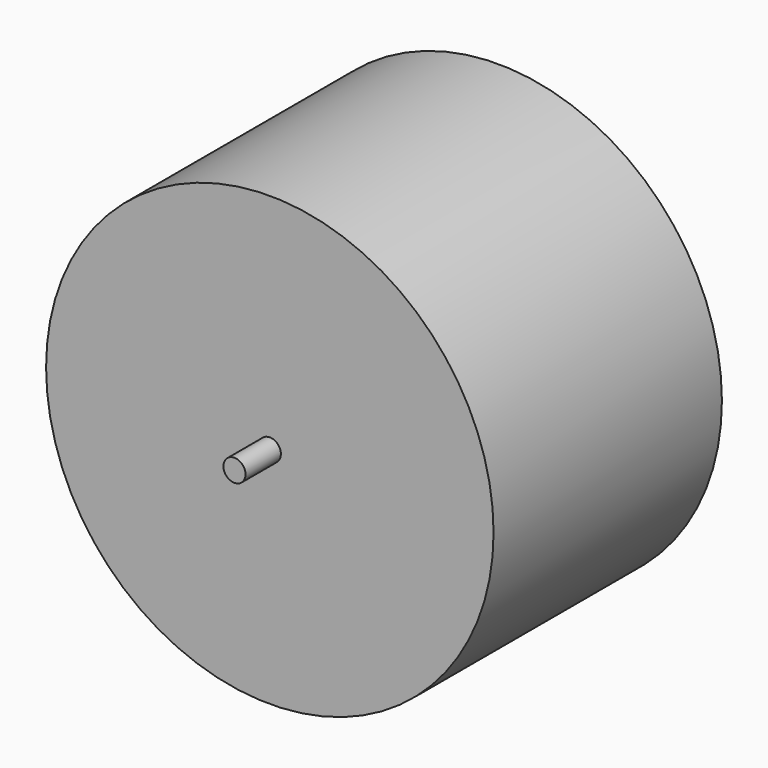
from build123d import *

# Parameters (mm, degrees)
SKETCH_R     = 121.5
PAD_DEPTH    = 155
SKETCH001_R  = 6
PAD001_DEPTH = 24
SKETCH002_R  = 6
PAD002_DEPTH = 24


with BuildPart() as part:
    # Sketch → Pad (new body)
    with BuildSketch(Plane.XZ):
        Circle(SKETCH_R)
    extrude(amount=PAD_DEPTH)

    # Sketch001 → Pad001 (join)
    with BuildSketch(Plane.XZ):
        Circle(SKETCH001_R)
    extrude(amount=-PAD001_DEPTH)

    # Sketch002 (on Face3 of Pad001) → Pad002 (join)
    with BuildSketch(Plane.XZ.offset(155)):
        Circle(SKETCH002_R)
    extrude(amount=PAD002_DEPTH)


solid = part.part
